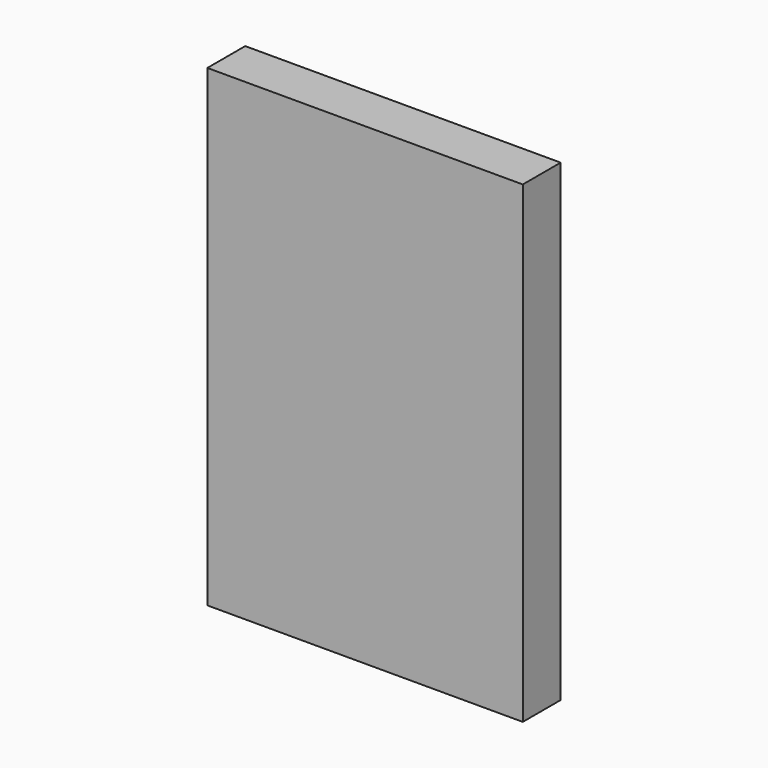
from build123d import *

# Parameters (mm, degrees)
SKETCH_W  = 200
SKETCH_H  = 300
PAD_DEPTH = 30


with BuildPart() as part:
    # Sketch → Pad (new body)
    with BuildSketch(Plane.XZ):
        with Locations((100, 150)):
            Rectangle(SKETCH_W, SKETCH_H)
    extrude(amount=PAD_DEPTH)


solid = part.part
